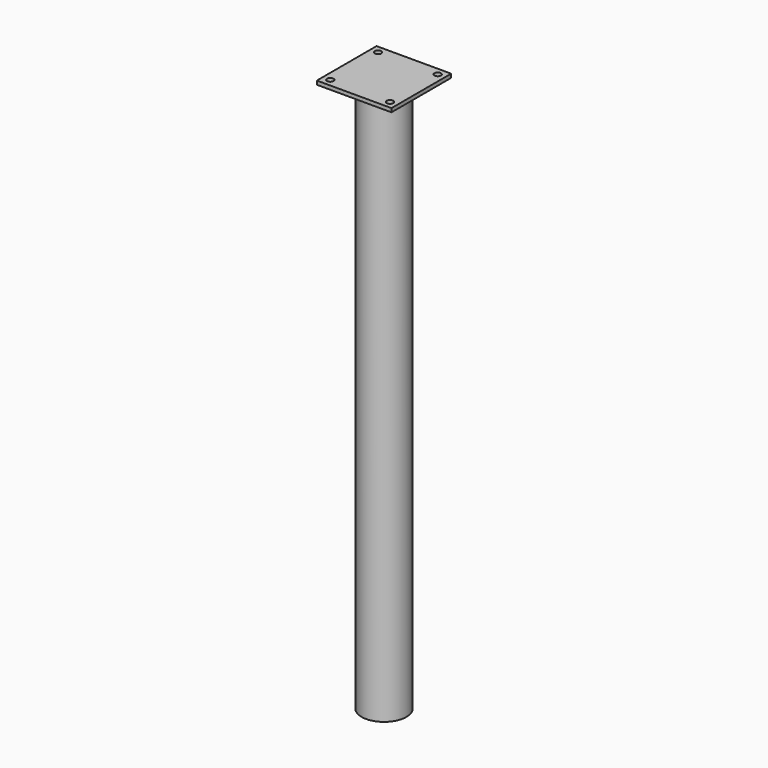
from build123d import *

# Parameters (mm, degrees)
F0_R     = 30
F1_DEPTH = 740
F2_W     = 100
F2_H     = 100
F2_R     = 30
F3_DEPTH = 5
F5_D     = 8.8


with BuildPart() as f1:
    # F0 (on Top) → F1 (new body)
    with BuildSketch(Plane.XY):
        Circle(F0_R)
    extrude(amount=F1_DEPTH)

    # F2 (on face) → F3 (join)
    with BuildSketch(Plane.XY.offset(740)):
        Rectangle(F2_W, F2_H)
        Circle(F2_R, mode=Mode.SUBTRACT)
        Circle(F2_R)
    extrude(amount=F3_DEPTH)

    # F5 (through all)
    with Locations(Plane.XY.offset(745)):
        with Locations((-40, 40), (40, 40), (40, -40), (-40, -40)):
            Hole(F5_D / 2)


solid = f1.part
